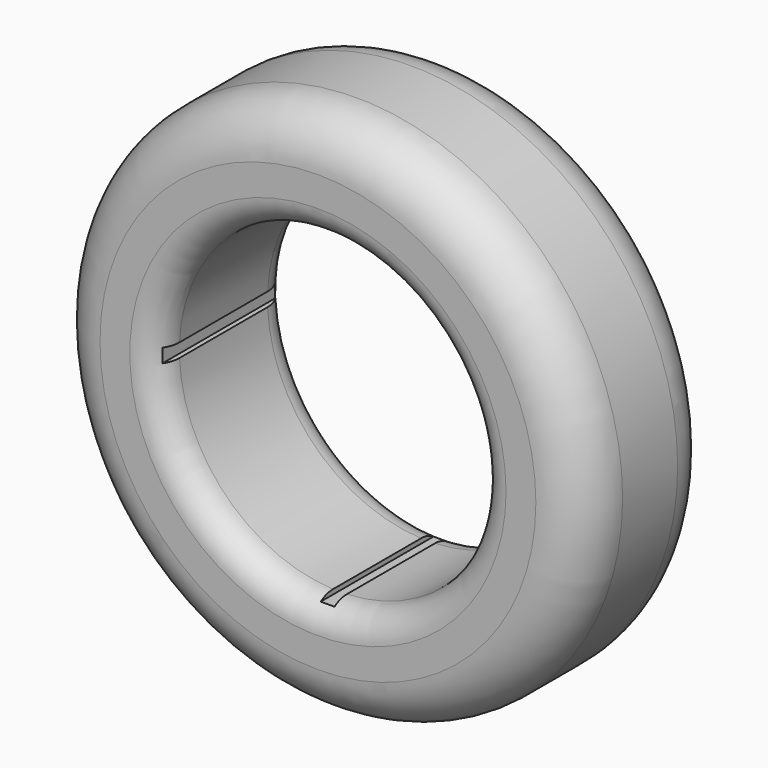
from build123d import *

# Parameters (mm, degrees)
BOX360_W          = 72
BOX360_H          = 35
BOX360_DEPTH      = 3
BOX361_W          = 3
BOX361_H          = 35
BOX361_DEPTH      = 72
CYLINDER019_R     = 35
CYLINDER019_DEPTH = 36
CYLINDER010_R     = 58
CYLINDER010_DEPTH = 36
FILLET003_R       = 10.5
FILLET012_R       = 6


with BuildPart() as cube360:
    # Box360 → Box360 (new body)
    with BuildSketch(Plane(origin=(-36, 1, -1.5), x_dir=(1, 0, 0), z_dir=(0, 0, 1))):
        with Locations((36, 17.5)):
            Rectangle(BOX360_W, BOX360_H)
    extrude(amount=BOX360_DEPTH)


with BuildPart() as fusion019:
    # Box361 → Box361 (new body)
    with BuildSketch(Plane(origin=(-1.5, 1, -36), x_dir=(1, 0, 0), z_dir=(0, 0, 1))):
        with Locations((1.5, 17.5)):
            Rectangle(BOX361_W, BOX361_H)
    extrude(amount=BOX361_DEPTH)

    # Fusion019: union Cube360
    add(cube360.part)


with BuildPart() as cylinder019:
    # Cylinder019 → Cylinder019 (new body)
    with BuildSketch(Plane(origin=(0, 0, 0), x_dir=(1, 0, 0), z_dir=(0, 1, 0))):
        Circle(CYLINDER019_R)
    extrude(amount=CYLINDER019_DEPTH)


with BuildPart() as front_wheel_inner_120mm:
    # Cylinder010 → Cylinder010 (new body)
    with BuildSketch(Plane(origin=(0, 0, 0), x_dir=(1, 0, 0), z_dir=(0, 1, 0))):
        Circle(CYLINDER010_R)
    extrude(amount=CYLINDER010_DEPTH)

    # Fillet003
    fillet003_edges = [front_wheel_inner_120mm.edges().sort_by_distance(p)[0] for p in [
        (-58, 0, 0),
        (-58, 36, 0),
    ]]
    fillet(fillet003_edges, radius=FILLET003_R)

    # Cut004026018020024: cut Cylinder019
    add(cylinder019.part, mode=Mode.SUBTRACT)

    # Fillet012
    fillet012_edges = [front_wheel_inner_120mm.edges().sort_by_distance(p)[0] for p in [
        (-35, 36, 0),
        (-35, 0, 0),
    ]]
    fillet(fillet012_edges, radius=FILLET012_R)

    # Cut004026018020025: cut Fusion019
    add(fusion019.part, mode=Mode.SUBTRACT)


with BuildPart() as front_wheel_inner_120mm_1:
    # Cut004026018020025 placement: moved
    add(front_wheel_inner_120mm.part.moved(Location((185, 0, 0))))


solid = front_wheel_inner_120mm_1.part
